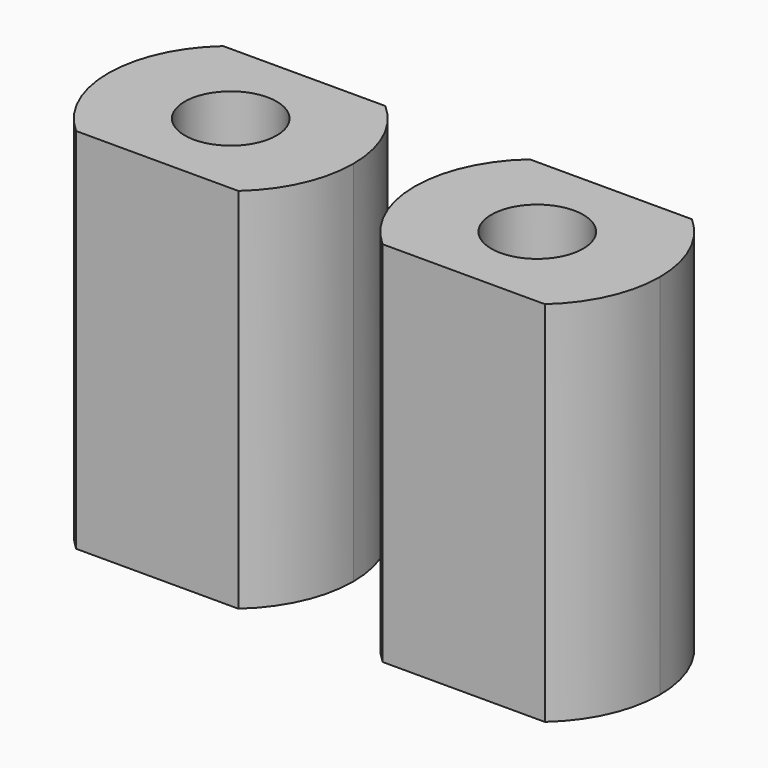
from build123d import *

# Parameters (mm, degrees)
F0_R     = 1.5
F1_DEPTH = 12


with BuildPart() as f1:
    # F0 (on Top) → F1 (new body)
    with BuildSketch(Plane.XY):
        with BuildLine():
            ThreePointArc((-42.464818, 18.514032), (-41.464818, 19.86828), (-41.110569, 21.514032))
            ThreePointArc((-41.110569, 21.514032), (-41.464818, 23.159783), (-42.464818, 24.514032))
            Line((-42.464818, 24.514032), (-47.75632, 24.514032))
            ThreePointArc((-47.75632, 24.514032), (-48.75632, 23.159783), (-49.110569, 21.514032))
            ThreePointArc((-49.110569, 21.514032), (-48.75632, 19.86828), (-47.75632, 18.514032))
            Line((-47.75632, 18.514032), (-42.464818, 18.514032))
        make_face()
        with Locations((-45.110569, 21.514032)):
            Circle(F0_R, mode=Mode.SUBTRACT)
    extrude(amount=F1_DEPTH)


with BuildPart() as f2_1:
    # F2: copy of F1
    add(f1.part.moved(Location((10, 0, 0))))


solid = Compound([f1.part, f2_1.part])
